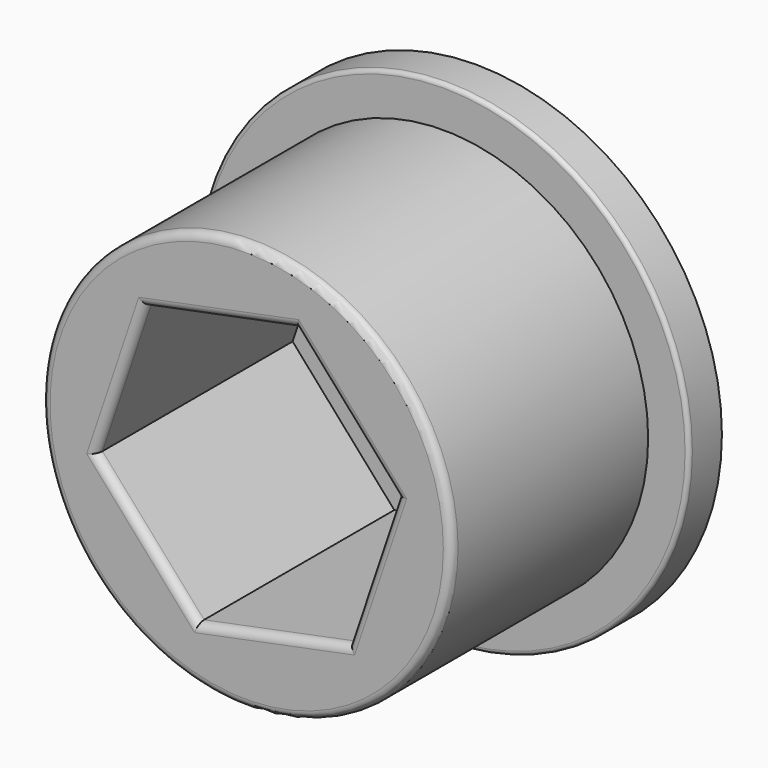
from build123d import *

# Parameters (mm, degrees)
F0_R     = 6
F1_DEPTH = 1
F2_R     = 5
F3_DEPTH = 6
F5_DEPTH = 6
F6_R     = 0.2
F7_R     = 0.1


with BuildPart() as f1:
    # F0 (on Front) → F1 (new body)
    with BuildSketch(Plane.XZ):
        Circle(F0_R)
    extrude(amount=-F1_DEPTH)

    # F2 (on face) → F3 (join)
    with BuildSketch(Plane.XZ):
        Circle(F2_R)
    extrude(amount=F3_DEPTH)

    # F4 (on face) → F5 (cut)
    with BuildSketch(Plane.XZ.offset(6)):
        Polygon((3.6786964709, 0.7419741291), (1.1967797907, 3.5568316612), (-2.4819166802, 2.8148575321), (-3.6786964709, -0.7419741291), (-1.1967797907, -3.5568316612), (2.4819166802, -2.8148575321), align=None)
    extrude(amount=-F5_DEPTH, mode=Mode.SUBTRACT)

    # F6
    f6_edges = [f1.edges().sort_by_distance(p)[0] for p in [
        (-5, -6, 0),
        (0.642568, -6, -3.185845),
        (3.080307, -6, -1.036442),
        (2.437738, -6, 2.149403),
        (-0.642568, -6, 3.185845),
        (-3.080307, -6, 1.036442),
        (-2.437738, -6, -2.149403),
    ]]
    fillet(f6_edges, radius=F6_R)

    # F7
    f7_edges = [f1.edges().sort_by_distance(p)[0] for p in [
        (-6, 0, 0),
    ]]
    fillet(f7_edges, radius=F7_R)


solid = f1.part
